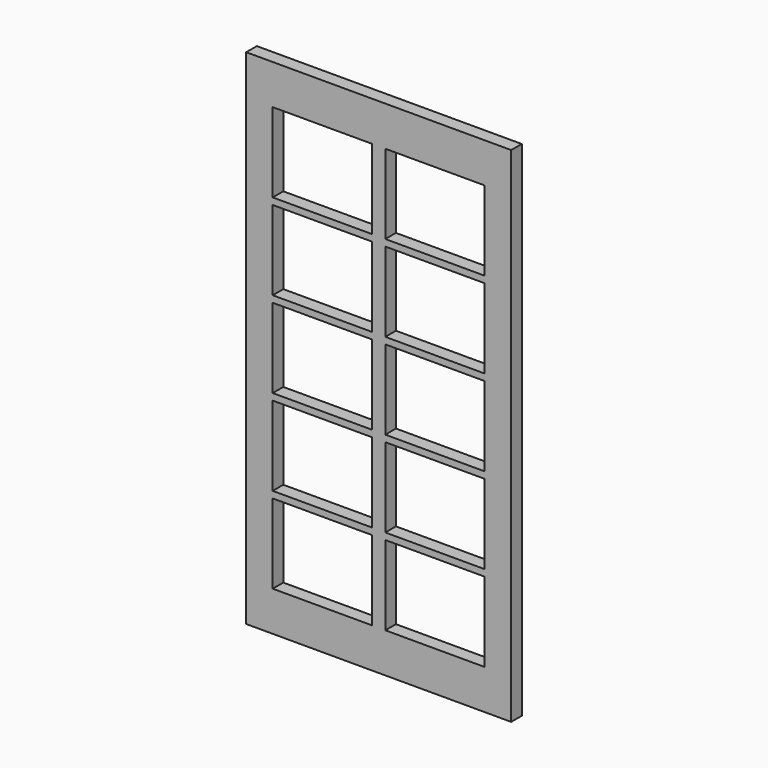
from build123d import *

# Parameters (mm, degrees)
F0_W     = 1016
F0_H     = 1930.4
F1_DEPTH = 50.8
F2_W     = 381
F2_H     = 304.8
F3_DEPTH = 50.801


with BuildPart() as f1:
    # F0 (on Front) → F1 (new body)
    with BuildSketch(Plane.XZ):
        Rectangle(F0_W, F0_H)
    extrude(amount=F1_DEPTH)

    # F2 (on face) → F3 (cut, through all)
    with BuildSketch(Plane.XZ.offset(50.8)):
        with Locations((-215.9, 660.4)):
            Rectangle(F2_W, F2_H)
        with Locations((-215.9, 330.2)):
            Rectangle(F2_W, F2_H)
        with Locations((-215.9, 0)):
            Rectangle(F2_W, F2_H)
        with Locations((-215.9, -330.2)):
            Rectangle(F2_W, F2_H)
        with Locations((-215.9, -660.4)):
            Rectangle(F2_W, F2_H)
        with Locations((215.9, 330.2)):
            Rectangle(F2_W, F2_H)
        with Locations((215.9, 660.4)):
            Rectangle(F2_W, F2_H)
        with Locations((215.9, 0)):
            Rectangle(F2_W, F2_H)
        with Locations((215.9, -330.2)):
            Rectangle(F2_W, F2_H)
        with Locations((215.9, -660.4)):
            Rectangle(F2_W, F2_H)
    extrude(amount=-F3_DEPTH, mode=Mode.SUBTRACT)


solid = f1.part
